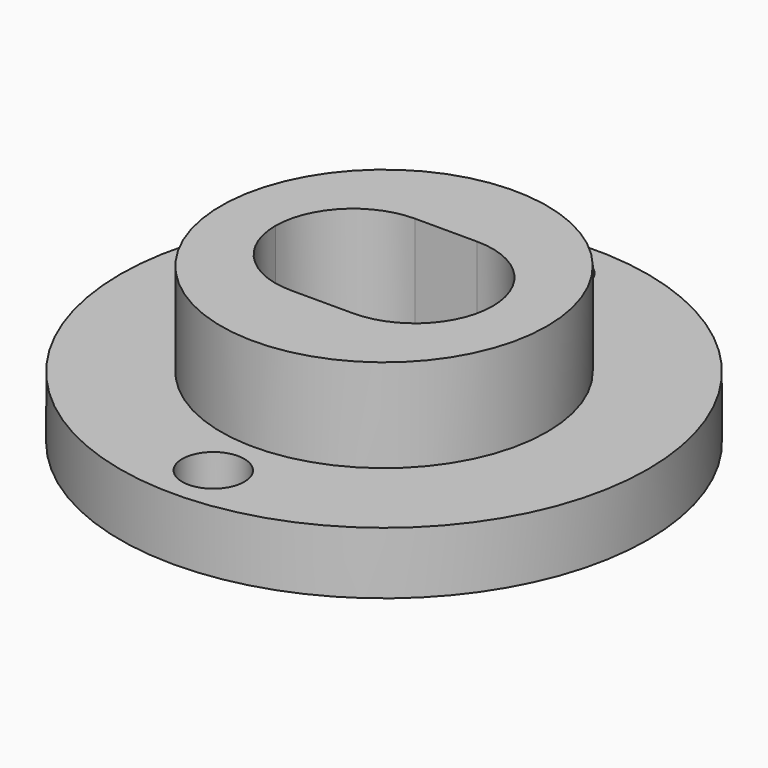
from build123d import *

# Parameters (mm, degrees)
F0_R           = 10.5
F1_DEPTH       = 10
F3_R           = 17
F3_R_2         = 2
F3_R_3         = 9.1303140993
F4_DEPTH       = 4
F5_D           = 4
F5_DEPTH       = 10
F5_CSINK_D     = 6.5
F5_CSINK_ANGLE = 90
F5_TIP         = 1.2017212381
F7_DEPTH       = 8


with BuildPart() as f1:
    # F0 (on Top) → F1 (new body)
    with BuildSketch(Plane.XY):
        Circle(F0_R)
        with BuildLine():
            ThreePointArc((-5, 0), (-4.1213203436, 2.1213203436), (-2, 3))
            Line((-2, 3), (2, 3))
            ThreePointArc((2, 3), (4.1213203436, 2.1213203436), (5, 0))
            ThreePointArc((5, 0), (4.1213203436, -2.1213203436), (2, -3))
            Line((2, -3), (-2, -3))
            ThreePointArc((-2, -3), (-4.1213203436, -2.1213203436), (-5, 0))
        make_face(mode=Mode.SUBTRACT)
    extrude(amount=-F1_DEPTH)

    # F3 (on offset) → F4 (join)
    with BuildSketch(Plane(origin=(0, 0, -10), x_dir=(1, 0, 0), z_dir=(0, 0, -1))):
        Circle(F3_R)
        with Locations((0, -13.75)):
            Circle(F3_R_2, mode=Mode.SUBTRACT)
        Circle(F3_R_3, mode=Mode.SUBTRACT)
        with Locations((0, 13.75)):
            Circle(F3_R_2, mode=Mode.SUBTRACT)
    extrude(amount=-F4_DEPTH)

    # F5
    with Locations(Plane(origin=(0, 0, -10), x_dir=(1, 0, 0), z_dir=(0, 0, -1))):
        with Locations((0, 13.75), (0, -13.75)):
            CounterSinkHole(F5_D / 2, F5_CSINK_D / 2, depth=F5_DEPTH, counter_sink_angle=F5_CSINK_ANGLE)
            with Locations((0, 0, -(F5_DEPTH + F5_TIP / 2))):  # 118° drill point
                Cone(0, F5_D / 2, F5_TIP, mode=Mode.SUBTRACT)

    # F6 (on face) → F7 (cut)
    with BuildSketch(Plane.XY):
        with BuildLine():
            Line((2, 5), (-2, 5))
            ThreePointArc((-2, 5), (-5.5355339059, 3.5355339059), (-7, 0))
            ThreePointArc((-7, 0), (-5.5355339059, -3.5355339059), (-2, -5))
            Line((-2, -5), (2, -5))
            ThreePointArc((2, -5), (5.5355339059, -3.5355339059), (7, 0))
            ThreePointArc((7, 0), (5.5355339059, 3.5355339059), (2, 5))
        make_face()
        with BuildLine():
            Line((2, -3), (-2, -3))
            ThreePointArc((-2, -3), (-5, 0), (-2, 3))
            Line((-2, 3), (2, 3))
            ThreePointArc((2, 3), (5, 0), (2, -3))
        make_face(mode=Mode.SUBTRACT)
    extrude(amount=-F7_DEPTH, mode=Mode.SUBTRACT)


solid = f1.part
